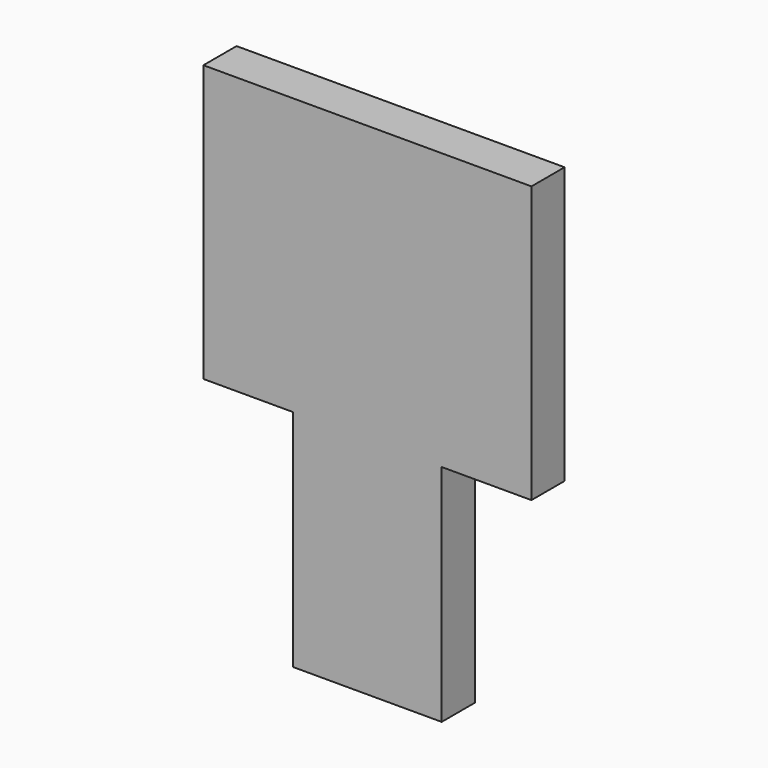
from build123d import *

# Parameters (mm, degrees)
F0_W     = 95
F0_H     = 145
F1_DEPTH = 12
F2_W     = 26
F2_H     = 65
F3_DEPTH = 15
F4_W     = 26
F4_H     = 65
F5_DEPTH = 15


with BuildPart() as f1:
    # F0 (on Front) → F1 (new body)
    with BuildSketch(Plane.XZ):
        Rectangle(F0_W, F0_H)
    extrude(amount=-F1_DEPTH)

    # F2 (on face) → F3 (cut)
    with BuildSketch(Plane.XZ):
        with Locations((34.5, -40)):
            Rectangle(F2_W, F2_H)
    extrude(amount=-F3_DEPTH, mode=Mode.SUBTRACT)

    # F4 (on face) → F5 (cut)
    with BuildSketch(Plane.XZ):
        with Locations((-34.5, -40)):
            Rectangle(F4_W, F4_H)
    extrude(amount=-F5_DEPTH, mode=Mode.SUBTRACT)


solid = f1.part
